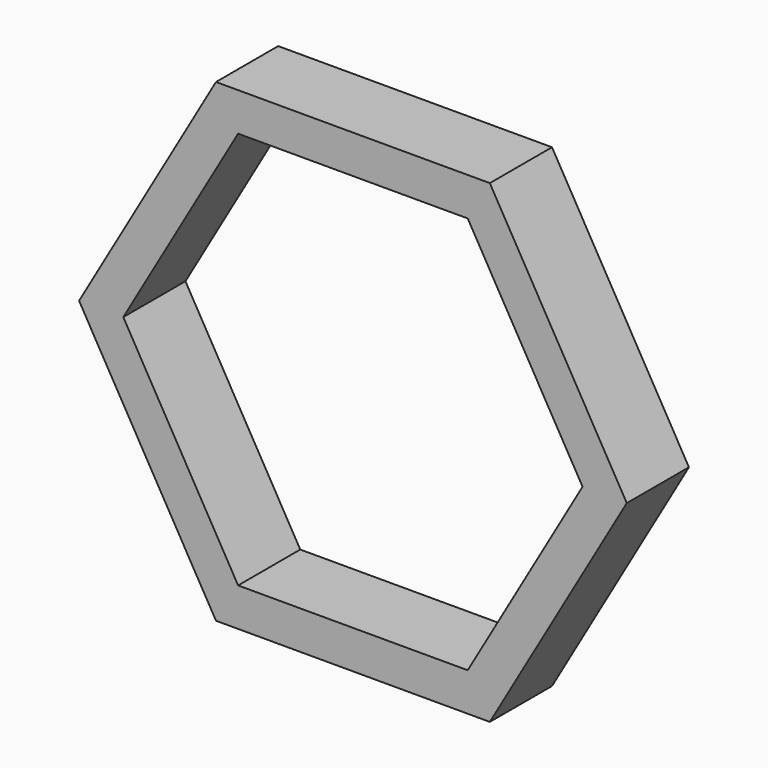
from build123d import *

# Parameters (mm, degrees)
F2_DEPTH = 16.7
F4_DEPTH = 47.6


with BuildPart() as f2:
    # F1 (on face) → F2 (new body)
    with BuildSketch(Plane.XZ):
        Polygon((58.85235, 0), (29.426175, 50.96763), (-29.426175, 50.96763), (-58.85235, 0), (-29.426175, -50.96763), (29.426175, -50.96763), align=None)
    extrude(amount=F2_DEPTH)

    # F3 (on face) → F4 (cut)
    with BuildSketch(Plane.XZ.offset(16.7)):
        Polygon((24.674382, 42.737283), (-24.674382, 42.737283), (-49.348763, 0), (-24.674382, -42.737283), (24.674382, -42.737283), (49.348763, 0), align=None)
    extrude(amount=-F4_DEPTH, mode=Mode.SUBTRACT)


solid = f2.part
